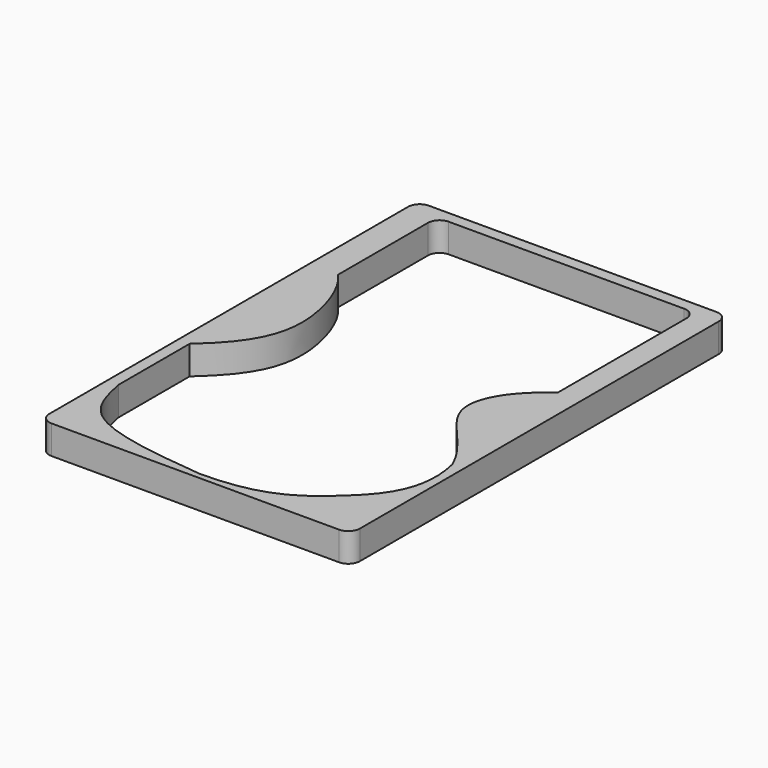
from build123d import *

# Parameters (mm, degrees)
F1_DEPTH = 31.75


with BuildPart() as f1:
    # F0 (on Top) → F1 (new body)
    with BuildSketch(Plane.XY):
        with BuildLine():
            Line((158.75, 260.35), (-158.75, 260.35))
            ThreePointArc((-158.75, 260.35), (-167.7302561211, 256.6302561211), (-171.45, 247.65))
            Line((-171.45, 247.65), (-171.45, -247.65))
            ThreePointArc((-171.45, -247.65), (-167.7302561211, -256.6302561211), (-158.75, -260.35))
            Line((-158.75, -260.35), (158.75, -260.35))
            ThreePointArc((158.75, -260.35), (167.7302561211, -256.6302561211), (171.45, -247.65))
            Line((171.45, -247.65), (171.45, 247.65))
            ThreePointArc((171.45, 247.65), (167.7302561211, 256.6302561211), (158.75, 260.35))
        make_face()
        with BuildLine():
            Line((-158.75, -168.3286130428), (-158.75, -69.85))
            add(Edge.make_bspline(
                [(-158.75, -69.85), (-125.750682879, -40.734982306), (-92.2382944115, 10.2020752056), (-121.6770256204, 92.6806720408), (-139.361128211, 110.4611489052)],
                knots=[0, 0, 0, 0, 0.5072023317, 1, 1, 1, 1], degree=3))
            Line((-139.361128211, 110.4611489052), (-139.361128211, 234.95))
            ThreePointArc((-139.361128211, 234.95), (-135.6413843321, 243.9302561211), (-126.661128211, 247.65))
            Line((-126.661128211, 247.65), (133.35, 247.65))
            ThreePointArc((133.35, 247.65), (142.3302561211, 243.9302561211), (146.05, 234.95))
            Line((146.05, 234.95), (146.05, 57.15))
            add(Edge.make_bspline(
                [(158.75, -103.9126433709), (142.5402943494, -66.7878627422), (75.9442820469, -25.835811925), (113.945925891, 34.7133202034), (146.05, 57.15)],
                knots=[0, 0, 0, 0, 0.5185201768, 1, 1, 1, 1], degree=3))
            add(Edge.make_bspline(
                [(0, -254), (66.0359377439, -253.8050247003), (118.9910289501, -216.3077578574), (171.45, -158.2672882658), (158.75, -103.9126433709)],
                knots=[0, 0, 0, 0, 0.5169156089, 1, 1, 1, 1], degree=3))
            add(Edge.make_bspline(
                [(0, -254), (-50.4826754374, -248.7984731698), (-144.7156709879, -239.3790961357), (-154.3932279359, -188.1159541937), (-158.75, -168.3286130428)],
                knots=[0, 0, 0, 0, 0.6026238082, 1, 1, 1, 1], degree=3))
        make_face(mode=Mode.SUBTRACT)
    extrude(amount=F1_DEPTH)


solid = f1.part
